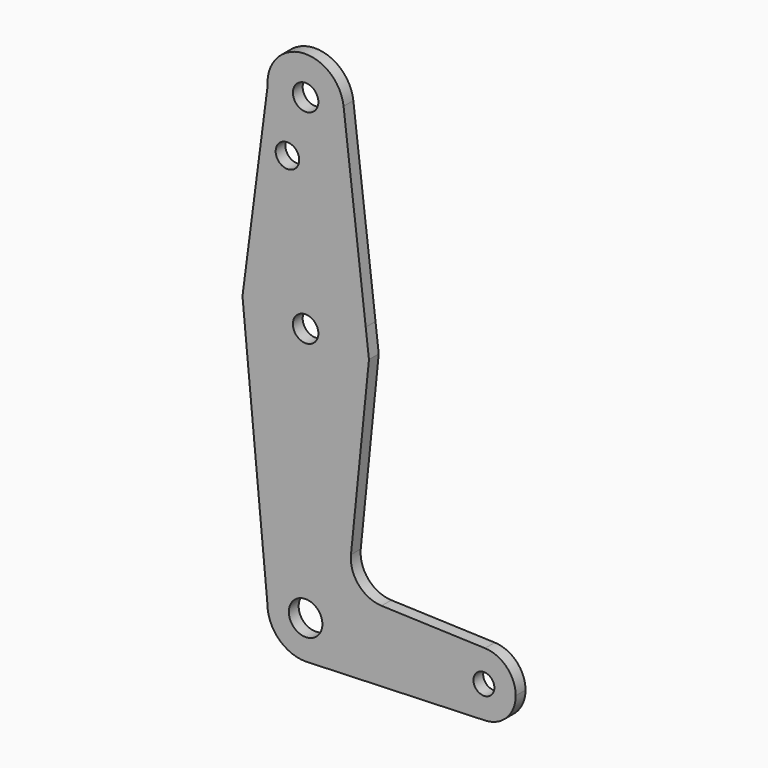
from build123d import *

# Parameters (mm, degrees)
F0_R     = 2.942768
F0_R_2   = 3.175
F0_R_3   = 2.610476
F0_R_4   = 4.179488
F1_DEPTH = 3.048


with BuildPart() as f1:
    # F0 (on Front) → F1 (new body)
    with BuildSketch(Plane.XZ):
        with BuildLine():
            ThreePointArc((9.45896, 115.419686), (9.508476, 114.860816), (9.525, 114.3))
            ThreePointArc((9.525, 114.3), (0.351146, 104.781475), (-9.49911, 113.598185))
            Line((-9.49911, 113.598185), (-15.742671, 65.545469))
            ThreePointArc((-15.742671, 65.545469), (-1.643104, 79.289738), (14.984226, 68.742956))
            Line((14.984226, 68.742956), (9.45896, 115.419686))
        make_face()
        with Locations((-4.530268, 100.0252)):
            Circle(F0_R, mode=Mode.SUBTRACT)
        with BuildLine():
            Line((15.794203, 61.90038), (14.984226, 68.742956))
            ThreePointArc((14.984226, 68.742956), (-1.643104, 79.289738), (-15.742671, 65.545469))
            Line((-15.742671, 65.545469), (-15.077269, 58.530939))
            ThreePointArc((-15.077269, 58.530939), (1.722435, 47.718719), (15.794203, 61.90038))
        make_face()
        with Locations((0, 63.5)):
            Circle(F0_R_2, mode=Mode.SUBTRACT)
        with BuildLine():
            Line((11.307223, 17.59718), (15.794203, 61.90038))
            ThreePointArc((15.794203, 61.90038), (1.722435, 47.718719), (-15.077269, 58.530939))
            Line((-15.077269, 58.530939), (-9.525, 0))
            ThreePointArc((-9.525, 0), (0, 9.525), (9.525, 0))
            ThreePointArc((9.525, 0), (6.970557, -6.491299), (0.677344, -9.500886))
            Line((0.677344, -9.500886), (44.732405, -7.932475))
            ThreePointArc((44.732405, -7.932475), (36.5125, 0), (44.732405, 7.932475))
            Line((44.732405, 7.932475), (18.934103, 8.850924))
            ThreePointArc((18.934103, 8.850924), (13.224974, 11.57098), (11.307223, 17.59718))
        make_face()
        with BuildLine():
            ThreePointArc((52.3875, 0), (50.161633, 5.51191), (44.732405, 7.932475))
            ThreePointArc((44.732405, 7.932475), (36.5125, 0), (44.732405, -7.932475))
            ThreePointArc((44.732405, -7.932475), (50.161633, -5.51191), (52.3875, 0))
        make_face()
        with Locations((44.45, 0)):
            Circle(F0_R_3, mode=Mode.SUBTRACT)
        with BuildLine():
            ThreePointArc((9.525, 0), (0, 9.525), (-9.525, 0))
            ThreePointArc((-9.525, 0), (-6.735192, -6.735192), (0, -9.525))
            Line((0, -9.525), (0.677344, -9.500886))
            ThreePointArc((0.677344, -9.500886), (6.970557, -6.491299), (9.525, 0))
        make_face()
        Circle(F0_R_4, mode=Mode.SUBTRACT)
        with BuildLine():
            ThreePointArc((-9.49911, 113.598185), (0.351146, 104.781475), (9.525, 114.3))
            ThreePointArc((9.525, 114.3), (9.508476, 114.860816), (9.45896, 115.419686))
            ThreePointArc((9.45896, 115.419686), (-0.910971, 123.781337), (-9.49911, 113.598185))
        make_face()
        with Locations((0, 114.3)):
            Circle(F0_R_2, mode=Mode.SUBTRACT)
    extrude(amount=-F1_DEPTH)


solid = f1.part
